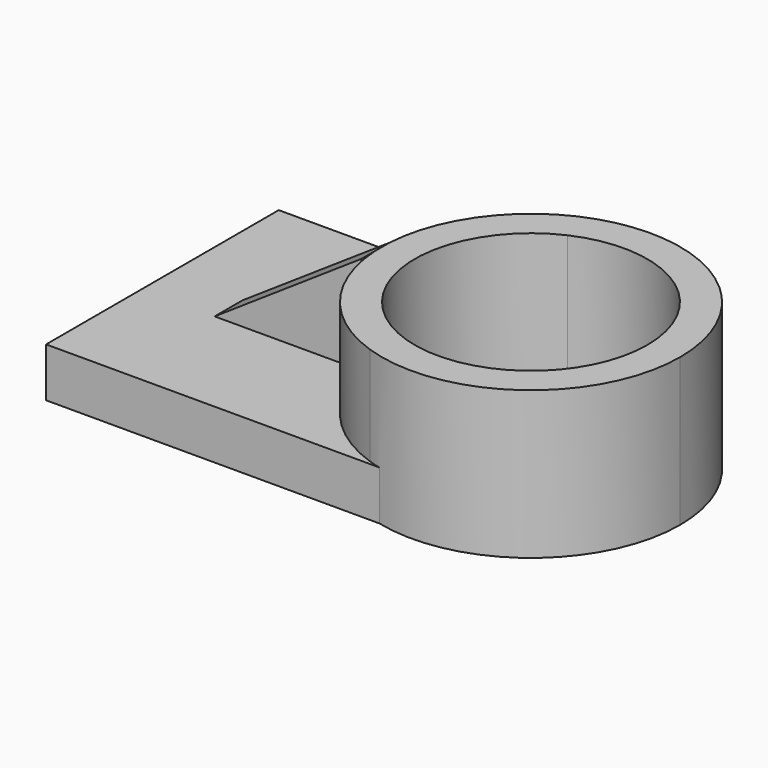
from build123d import *

# Parameters (mm, degrees)
F1_DEPTH = 38.1
F3_DEPTH = 12.7
F4_W     = 37.890759
F4_H     = 8.996059
F5_DEPTH = 25.4
F7_DEPTH = 25.4


with BuildPart() as f1:
    # F0 (on Top) → F1 (new body)
    with BuildSketch(Plane.XY):
        with BuildLine():
            Line((-12.425475, 27.331422), (-12.425475, 36.439589))
            ThreePointArc((-12.425475, 36.439589), (-38.49982, 0), (-12.425475, -36.439589))
            Line((-12.425475, -36.439589), (-12.425475, -27.331422))
            ThreePointArc((-12.425475, -27.331422), (-30.023308, 0), (-12.425475, 27.331422))
        make_face()
        with BuildLine():
            ThreePointArc((-12.425475, -36.439589), (22.403767, -31.30986), (38.49982, 0))
            ThreePointArc((38.49982, 0), (22.403767, 31.30986), (-12.425475, 36.439589))
            Line((-12.425475, 36.439589), (-12.425475, 27.331422))
            ThreePointArc((-12.425475, 27.331422), (16.253387, 25.243345), (30.023308, 0))
            ThreePointArc((30.023308, 0), (16.253387, -25.243345), (-12.425475, -27.331422))
            Line((-12.425475, -27.331422), (-12.425475, -36.439589))
        make_face()
    extrude(amount=F1_DEPTH)

    # F2 (on Top) → F3 (join)
    with BuildSketch(Plane.XY):
        with BuildLine():
            ThreePointArc((-8.232961, -37.371887), (-38.267997, 0), (-8.232961, 37.371887))
            Line((-8.232961, 37.371887), (-8.232961, 37.649773))
            Line((-8.232961, 37.649773), (-95.211737, 37.649773))
            Line((-95.211737, 37.649773), (-95.211737, -37.371887))
            Line((-95.211737, -37.371887), (-8.232961, -37.371887))
        make_face()
    extrude(amount=F3_DEPTH)

    # F4 (on face) → F5 (join)
    with BuildSketch(Plane.XY.offset(12.7)):
        with Locations((-57.37193, -2.123943)):
            Rectangle(F4_W, F4_H)
    extrude(amount=F5_DEPTH)

    # F6 (on face) → F7 (cut)
    with BuildSketch(Plane(origin=(0, 2.374087, 0), x_dir=(-1, 0, 0), z_dir=(0, 1, 0))):
        Polygon((76.31731, 38.1), (38.426551, 38.1), (76.31731, 12.7), align=None)
    extrude(amount=-F7_DEPTH, mode=Mode.SUBTRACT)


solid = f1.part
